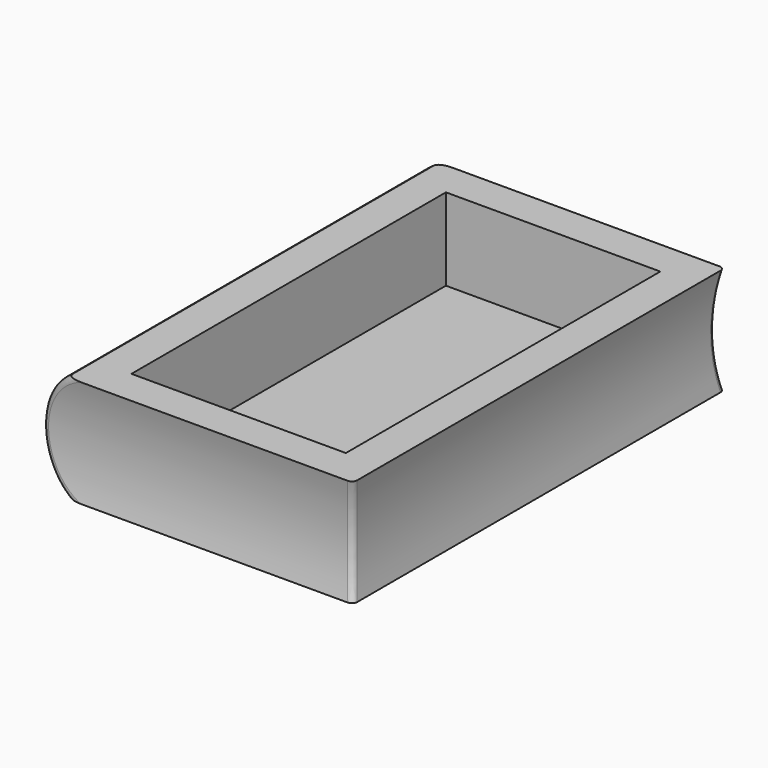
from build123d import *

# Parameters (mm, degrees)
F0_W     = 101.6
F0_H     = 165.1
F1_DEPTH = 38.1
F2_W     = 76.2
F2_H     = 139.7
F3_DEPTH = 29.21
F5_DEPTH = 165.1
F8_DEPTH = 177.8
F9_DEPTH = 203.2
F10_R    = 1.905
F11_R    = 1.905


with BuildPart() as f1:
    # F0 (on Top) → F1 (new body)
    with BuildSketch(Plane.XY):
        with Locations((3.219465, 25.661658)):
            Rectangle(F0_W, F0_H)
        with Locations((3.219465, 25.661658)):
            Rectangle(F0_W, F0_H)
    extrude(amount=F1_DEPTH)

    # F2 (on face) → F3 (cut)
    with BuildSketch(Plane.XY.offset(38.1)):
        with Locations((3.219465, 25.661658)):
            Rectangle(F2_W, F2_H)
    extrude(amount=-F3_DEPTH, mode=Mode.SUBTRACT)

    # F4 (on face) → F5 (join)
    with BuildSketch(Plane(origin=(0, 108.211658, 0), x_dir=(-1, 0, 0), z_dir=(0, 1, 0))):
        with BuildLine():
            Line((47.580535, 38.1), (47.580535, 0))
            ThreePointArc((47.580535, 0), (57.787384, 19.05), (47.580535, 38.1))
        make_face()
    extrude(amount=-F5_DEPTH)

    # F7 (on face) → F8 (cut)
    with BuildSketch(Plane.YZ.offset(54.019465)):
        with BuildLine():
            ThreePointArc((108.211658, 38.1), (106.126335, 19.05), (108.211658, 0))
            Line((108.211658, 0), (108.211658, 38.1))
        make_face()
        with BuildLine():
            Line((-56.888342, 38.1), (-56.888342, 0))
            ThreePointArc((-56.888342, 0), (-54.735258, 19.05), (-56.888342, 38.1))
        make_face()
    extrude(amount=-F8_DEPTH, mode=Mode.SUBTRACT)

    # F6 (on face) → F9 (cut)
    with BuildSketch(Plane.XZ.offset(56.888342)):
        with BuildLine():
            Line((54.019465, 0), (54.019465, 38.1))
            ThreePointArc((54.019465, 38.1), (52.204457, 19.05), (54.019465, 0))
        make_face()
    extrude(amount=-F9_DEPTH, mode=Mode.SUBTRACT)

    # F10
    f10_edges = [f1.edges().sort_by_distance(p)[0] for p in [
        (52.204457, -54.735258, 19.05),
        (52.204457, 106.126335, 19.05),
    ]]
    fillet(f10_edges, radius=F10_R)

    # F11
    f11_edges = [f1.edges().sort_by_distance(p)[0] for p in [
        (-57.787384, -54.735258, 19.05),
        (-57.787384, 106.126335, 19.05),
    ]]
    fillet(f11_edges, radius=F11_R)


solid = f1.part
